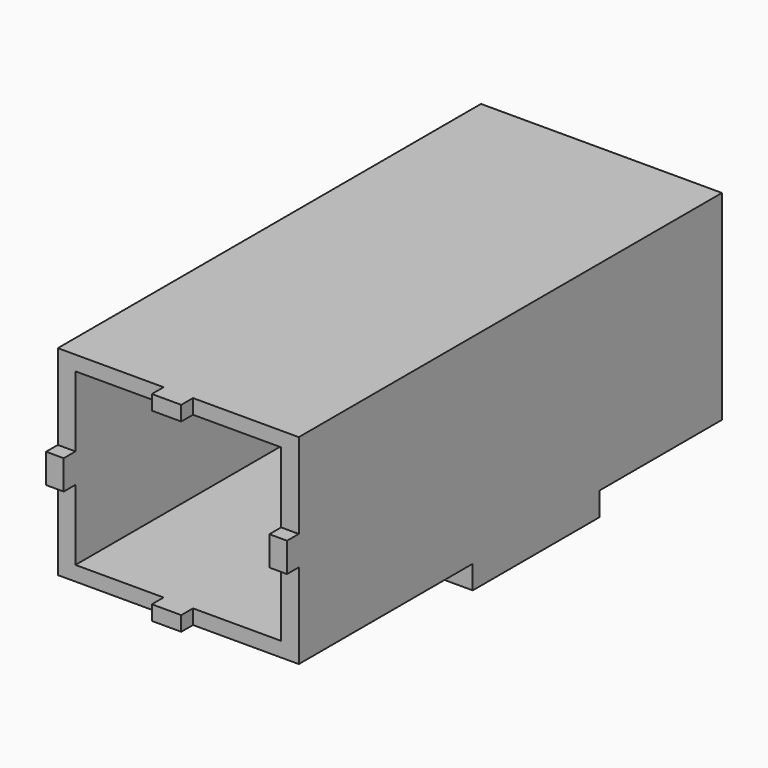
from build123d import *

# Parameters (mm, degrees)
F0_W     = 41
F0_H     = 90
F1_DEPTH = 34
F2_W     = 35
F2_H     = 29
F3_DEPTH = 86
F4_W     = 5.5
F4_H     = 5.5
F4_R     = 3.75
F4_H_2   = 3
F4_R_2   = 1.5
F5_DEPTH = 4
F6_W     = 5
F6_H     = 2.5
F6_W_2   = 3
F6_H_2   = 5
F7_DEPTH = 2.5
F8_W     = 5
F8_H     = 27
F9_DEPTH = 4


with BuildPart() as f1:
    # F0 (on Top) → F1 (new body)
    with BuildSketch(Plane.XY):
        with Locations((-1.702341, 4.193077)):
            Rectangle(F0_W, F0_H)
    extrude(amount=F1_DEPTH)

    # F2 (on face) → F3 (cut)
    with BuildSketch(Plane.XZ.offset(40.806923)):
        with Locations((-1.702341, 17)):
            Rectangle(F2_W, F2_H)
    extrude(amount=-F3_DEPTH, mode=Mode.SUBTRACT)

    # F4 (on face) → F5 (cut, through all)
    with BuildSketch(Plane(origin=(0, 49.193077, 0), x_dir=(-1, 0, 0), z_dir=(0, 1, 0))):
        with Locations((-8.047659, 7.522329)):
            Rectangle(F4_W, F4_H)
        with Locations((1.702341, 17)):
            Circle(F4_R)
        with Locations((10.567795, 28.5)):
            Rectangle(F4_W, F4_H_2)
        with Locations((10.202341, 17)):
            Circle(F4_R_2)
        with Locations((-6.797659, 17)):
            Circle(F4_R_2)
    extrude(amount=-F5_DEPTH, mode=Mode.SUBTRACT)

    # F6 (on face) → F7 (join)
    with BuildSketch(Plane.XZ.offset(40.806923)):
        with Locations((-1.702341, 32.75)):
            Rectangle(F6_W, F6_H)
        with Locations((-20.702341, 17)):
            Rectangle(F6_W_2, F6_H_2)
        with Locations((17.297659, 17)):
            Rectangle(F6_W_2, F6_H_2)
        with Locations((-1.702341, 1.25)):
            Rectangle(F6_W, F6_H)
    extrude(amount=F7_DEPTH)

    # F8 (on face) → F9 (join)
    with BuildSketch(Plane(origin=(0, 0, 0), x_dir=(1, 0, 0), z_dir=(0, 0, -1))):
        with Locations((-19.702341, -9.693077)):
            Rectangle(F8_W, F8_H)
        with Locations((16.297659, -9.693077)):
            Rectangle(F8_W, F8_H)
    extrude(amount=F9_DEPTH)


solid = f1.part
